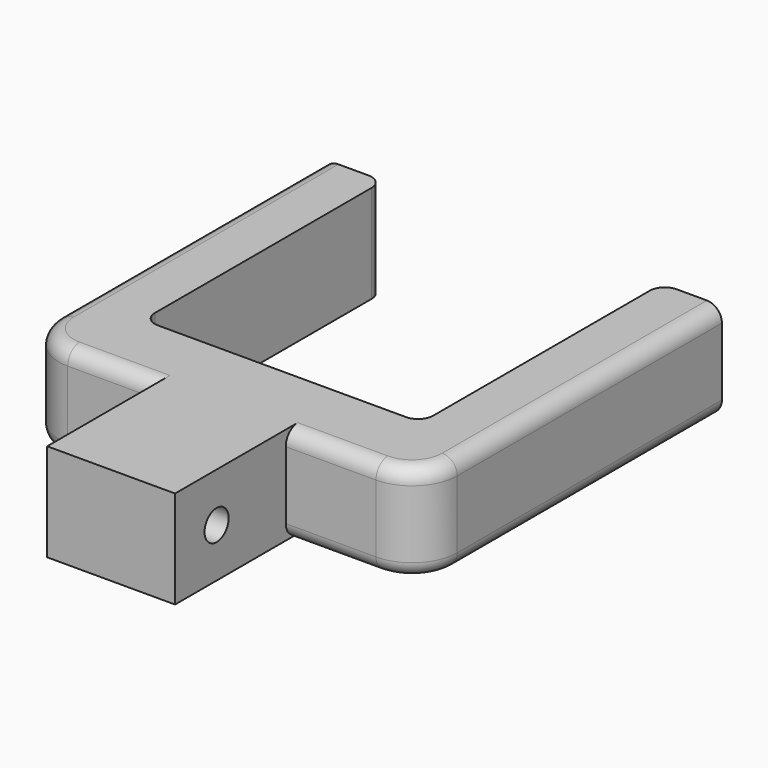
from build123d import *

# Parameters (mm, degrees)
PAD_DEPTH    = 6.5
SKETCH001_R  = 2
POCKET_DEPTH = 34.999843
FILLET_R     = 2
FILLET001_R  = 2
FILLET002_R  = 6
FILLET003_R  = 2
FILLET004_R  = 2
FILLET005_R  = 2


with BuildPart() as part:
    # Sketch → Pad (new body, symmetric)
    with BuildSketch(Plane.XY):
        Polygon((-8.5, 9.102282), (-8.5, -9.297718), (8.5, -9.297718), (8.5, 9.102282), (26.498843, 9.102282), (26.498843, 59.102282), (18.498843, 59.102282), (18.498843, 19.102282), (-18.498843, 19.102282), (-18.498843, 59.102282), (-26.498843, 59.102282), (-26.498843, 9.102282), align=None)
    extrude(amount=PAD_DEPTH, both=True)

    # Sketch001 → Pocket (cut, through all)
    with BuildSketch(Plane.YZ.offset(8.5)):
        with Locations((-2.397718, 0)):
            Circle(SKETCH001_R)
    extrude(amount=-POCKET_DEPTH, mode=Mode.SUBTRACT)

    # Fillet
    fillet_edges = [part.edges().sort_by_distance(p)[0] for p in [
        (-18.498843, 19.102282, 0),
    ]]
    fillet(fillet_edges, radius=FILLET_R)

    # Fillet001
    fillet001_edges = [part.edges().sort_by_distance(p)[0] for p in [
        (18.498843, 19.102282, 0),
    ]]
    fillet(fillet001_edges, radius=FILLET001_R)

    # Fillet002
    fillet002_edges = [part.edges().sort_by_distance(p)[0] for p in [
        (26.498843, 9.102282, 0),
        (-26.498843, 9.102282, 0),
    ]]
    fillet(fillet002_edges, radius=FILLET002_R)

    # Fillet003
    fillet003_edges = [part.edges().sort_by_distance(p)[0] for p in [
        (-24.741484, 10.859642, 6.5),
        (-26.498843, 37.102282, 6.5),
        (-14.499422, 9.102282, 6.5),
        (-14.499422, 9.102282, -6.5),
        (-24.741484, 10.859642, -6.5),
        (-26.498843, 37.102282, -6.5),
    ]]
    fillet(fillet003_edges, radius=FILLET003_R)

    # Fillet004
    fillet004_edges = [part.edges().sort_by_distance(p)[0] for p in [
        (14.499422, 9.102282, 6.5),
        (24.741484, 10.859642, 6.5),
        (26.498843, 37.102282, 6.5),
        (26.498843, 37.102282, -6.5),
        (24.741484, 10.859642, -6.5),
        (14.499422, 9.102282, -6.5),
    ]]
    fillet(fillet004_edges, radius=FILLET004_R)

    # Fillet005
    fillet005_edges = [part.edges().sort_by_distance(p)[0] for p in [
        (18.498843, 59.102282, 0),
        (-18.498843, 59.102282, 0),
    ]]
    fillet(fillet005_edges, radius=FILLET005_R)


solid = part.part
